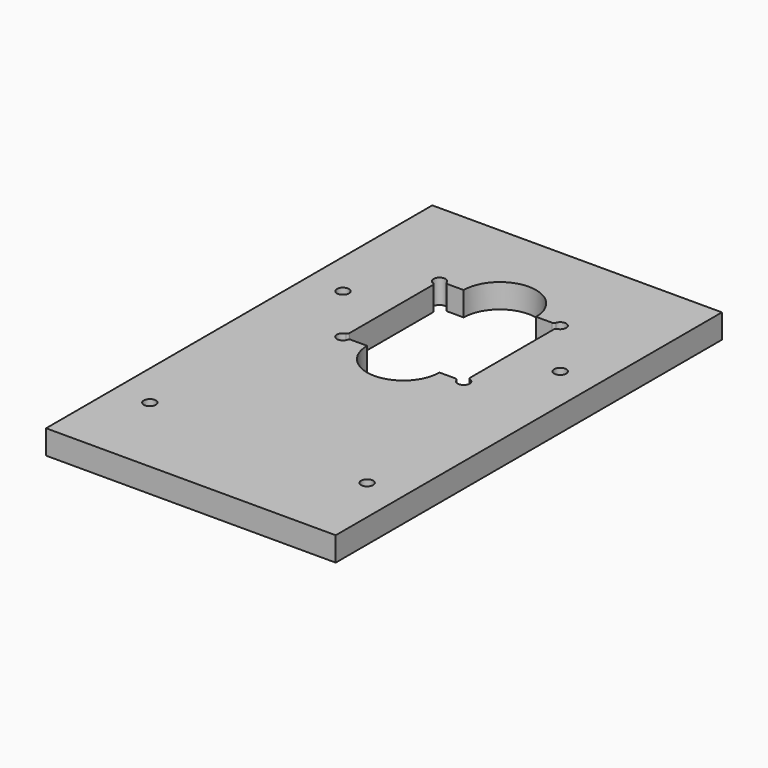
from build123d import *

# Parameters (mm, degrees)
F0_W     = 120
F0_H     = 200
F0_R     = 2.5
F1_DEPTH = 10
F2_R     = 1


with BuildPart() as f1:
    # F0 (on Top) → F1 (new body)
    with BuildSketch(Plane.XY):
        with Locations((0, -35)):
            Rectangle(F0_W, F0_H)
        with Locations((-45, -100)):
            Circle(F0_R, mode=Mode.SUBTRACT)
        with Locations((45, -100)):
            Circle(F0_R, mode=Mode.SUBTRACT)
        with Locations((-45, 0)):
            Circle(F0_R, mode=Mode.SUBTRACT)
        with BuildLine():
            Line((-15, -25), (-22.5, -25))
            ThreePointArc((-22.5, -25), (-26.767767, -26.767767), (-25, -22.5))
            Line((-25, -22.5), (-25, 22.5))
            ThreePointArc((-25, 22.5), (-26.767767, 26.767767), (-22.5, 25))
            Line((-22.5, 25), (-15, 25))
            ThreePointArc((-15, 25), (0, 40), (15, 25))
            Line((15, 25), (22.5, 25))
            ThreePointArc((22.5, 25), (25, 27.5), (27.5, 25))
            ThreePointArc((27.5, 25), (26.767767, 23.232233), (25, 22.5))
            Line((25, 22.5), (25, -22.5))
            ThreePointArc((25, -22.5), (26.767767, -23.232233), (27.5, -25))
            ThreePointArc((27.5, -25), (25, -27.5), (22.5, -25))
            Line((22.5, -25), (15, -25))
            ThreePointArc((15, -25), (0, -40), (-15, -25))
        make_face(mode=Mode.SUBTRACT)
        with Locations((45, 0)):
            Circle(F0_R, mode=Mode.SUBTRACT)
    extrude(amount=F1_DEPTH)

    # F2
    f2_edges = [f1.edges().sort_by_distance(p)[0] for p in [
        (-22.5, 25, 5),
        (-25, 22.5, 5),
        (-25, -22.5, 5),
        (-22.5, -25, 5),
        (22.5, 25, 5),
        (25, 22.5, 5),
        (22.5, -25, 5),
        (25, -22.5, 5),
    ]]
    fillet(f2_edges, radius=F2_R)


solid = f1.part
